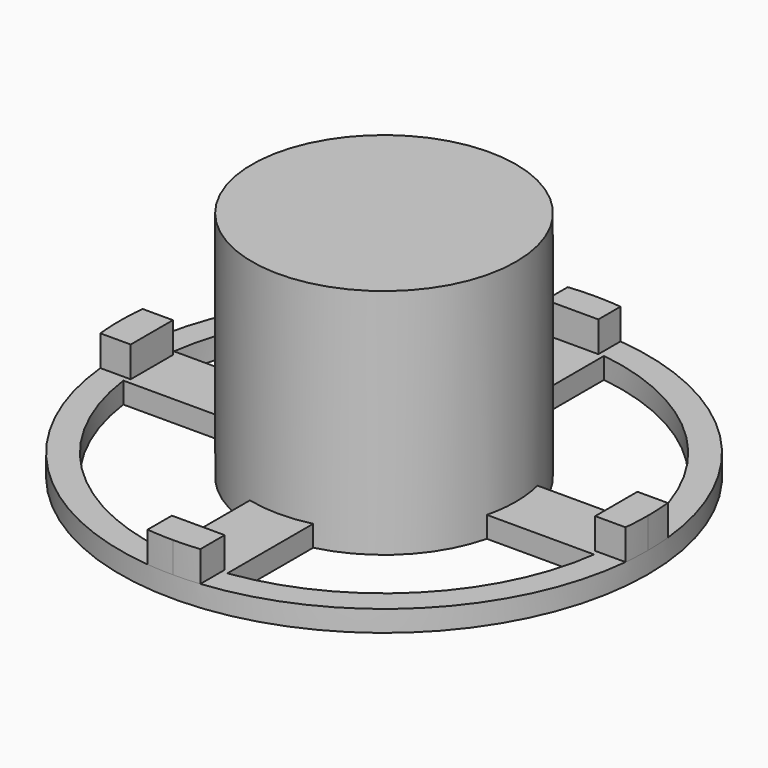
from build123d import *

# Parameters (mm, degrees)
F0_R      = 50
F1_DEPTH  = 4
F2_R      = 25
F3_DEPTH  = 40
F5_DEPTH  = 5.8
F6_DEPTH  = 5.8
F7_DEPTH  = 5.8
F8_R      = 45
F9_DEPTH  = 4
F10_W     = 6
F10_H     = 6
F11_DEPTH = 4
F12_R     = 25
F13_DEPTH = 5
F14_R     = 22.5
F15_DEPTH = 40


with BuildPart() as f1:
    # F0 (on Top) → F1 (new body)
    with BuildSketch(Plane.XY):
        Circle(F0_R)
    extrude(amount=F1_DEPTH)

    # F2 (on face) → F3 (join)
    with BuildSketch(Plane.XY.offset(4)):
        Circle(F2_R)
    extrude(amount=F3_DEPTH)

    # F4 (on face) → F5 (join)
    with BuildSketch(Plane.XY.offset(4)):
        with BuildLine():
            ThreePointArc((5, 49.7493718553), (2.503138753, 49.9373036555), (0, 50))
            ThreePointArc((0, 50), (-2.503138753, 49.9373036555), (-5, 49.7493718553))
            Line((-5, 49.7493718553), (-5, 44.5003296036))
            Line((-5, 44.5003296036), (5, 44.5003296036))
            Line((5, 44.5003296036), (5, 49.7493718553))
        make_face()
    extrude(amount=F5_DEPTH)

    # F4 (on face) → F6 (join)
    with BuildSketch(Plane.XY.offset(4)):
        with BuildLine():
            ThreePointArc((0, -50), (2.503138753, -49.9373036555), (5, -49.7493718553))
            Line((5, -49.7493718553), (5, -44))
            Line((5, -44), (-5, -44))
            Line((-5, -44), (-5, -49.7493718553))
            ThreePointArc((-5, -49.7493718553), (-2.503138753, -49.9373036555), (0, -50))
        make_face()
    extrude(amount=F6_DEPTH)

    # F4 (on face) → F7 (join)
    with BuildSketch(Plane.XY.offset(4)):
        with BuildLine():
            Line((-44, 5), (-49.7493718553, 5))
            ThreePointArc((-49.7493718553, 5), (-49.9373036555, 2.503138753), (-50, 0))
            ThreePointArc((-50, 0), (-49.9373036555, -2.503138753), (-49.7493718553, -5))
            Line((-49.7493718553, -5), (-44, -5))
            Line((-44, -5), (-44, 5))
        make_face()
        with BuildLine():
            ThreePointArc((50, 0), (49.9373036555, 2.503138753), (49.7493718553, 5))
            Line((49.7493718553, 5), (44, 5))
            Line((44, 5), (44, -5))
            Line((44, -5), (49.7493718553, -5))
            ThreePointArc((49.7493718553, -5), (49.9373036555, -2.503138753), (50, 0))
        make_face()
    extrude(amount=F7_DEPTH)

    # F8 (on Top) → F9 (cut)
    with BuildSketch(Plane.XY):
        Circle(F8_R)
    extrude(amount=F9_DEPTH, mode=Mode.SUBTRACT)

    # F10 (on Top) → F11 (join)
    with BuildSketch(Plane.XY):
        Polygon((6, 46.8811020255), (-6, 46.8811020255), (-6, 6), (0, 6), (6, 6), align=None)
        with Locations((-3, 3)):
            Rectangle(F10_W, F10_H)
        Polygon((-6, 0), (-6, 6), (-46.5700030327, 6), (-46.5700030327, -6), (-6, -6), align=None)
        Polygon((46.8255914748, 6), (6, 6), (6, 0), (6, -6), (46.8255914748, -6), align=None)
        with Locations((3, 3)):
            Rectangle(F10_W, F10_H)
        with Locations((-3, -3)):
            Rectangle(F10_W, F10_H)
        with Locations((3, -3)):
            Rectangle(F10_W, F10_H)
        Polygon((0, -6), (-6, -6), (-6, -46.7753745615), (6, -46.7753745615), (6, -6), align=None)
    extrude(amount=F11_DEPTH)

    # F12 (on Top) → F13 (join)
    with BuildSketch(Plane.XY):
        Circle(F12_R)
    extrude(amount=F13_DEPTH)

    # F14 (on face) → F15 (cut)
    with BuildSketch(Plane(origin=(0, 0, 0), x_dir=(1, 0, 0), z_dir=(0, 0, -1))):
        Circle(F14_R)
    extrude(amount=-F15_DEPTH, mode=Mode.SUBTRACT)


solid = f1.part
